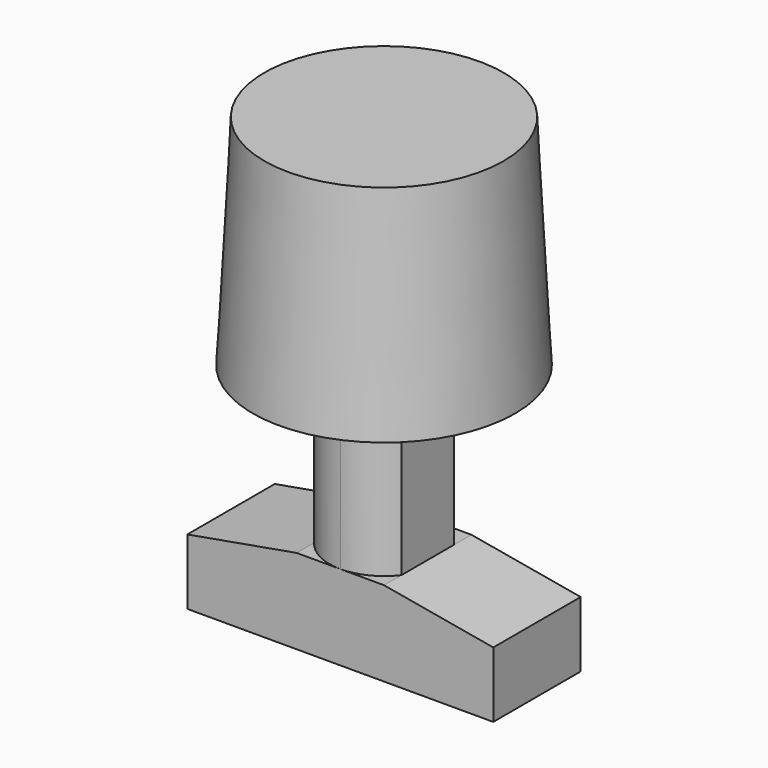
from build123d import *

# Parameters (mm, degrees)
F1_DEPTH = 1.25
F3_DEPTH = 3.6
F4_R     = 3
F5_DEPTH = 5
F5_TAPER = 3


with BuildPart() as f1:
    # F0 (on Front) → F1 (new body, symmetric)
    with BuildSketch(Plane.XZ):
        Polygon((3.5, 0.5295912741), (1, 0.9704087259), (-1, 0.9704087259), (-3.5, 0.5295912741), (-3.5, -0.9704087259), (0, -0.9704087259), (3.5, -0.9704087259), align=None)
    extrude(amount=F1_DEPTH, both=True)

    # F2 (on face) → F3 (join)
    with BuildSketch(Plane.XY.offset(0.9704087259)):
        with BuildLine():
            Line((1, -0.75), (1, 0.75))
            ThreePointArc((1, 0.75), (0.5590169944, 1.1180339887), (0, 1.25))
            ThreePointArc((0, 1.25), (-0.5590169944, 1.1180339887), (-1, 0.75))
            Line((-1, 0.75), (-1, -0.75))
            ThreePointArc((-1, -0.75), (-0.5590169944, -1.1180339887), (0, -1.25))
            ThreePointArc((0, -1.25), (0.5590169944, -1.1180339887), (1, -0.75))
        make_face()
    extrude(amount=F3_DEPTH)

    # F4 (on face) → F5 (join)
    with BuildSketch(Plane.XY.offset(4.5704087259)):
        Circle(F4_R)
        with BuildLine():
            Line((1, 0.75), (1, -0.75))
            ThreePointArc((1, -0.75), (0, -1.25), (-1, -0.75))
            Line((-1, -0.75), (-1, 0.75))
            ThreePointArc((-1, 0.75), (0, 1.25), (1, 0.75))
        make_face(mode=Mode.SUBTRACT)
        with BuildLine():
            ThreePointArc((-1, -0.75), (0, -1.25), (1, -0.75))
            Line((1, -0.75), (1, 0.75))
            ThreePointArc((1, 0.75), (0, 1.25), (-1, 0.75))
            Line((-1, 0.75), (-1, -0.75))
        make_face()
    extrude(amount=F5_DEPTH, taper=F5_TAPER)


solid = f1.part
